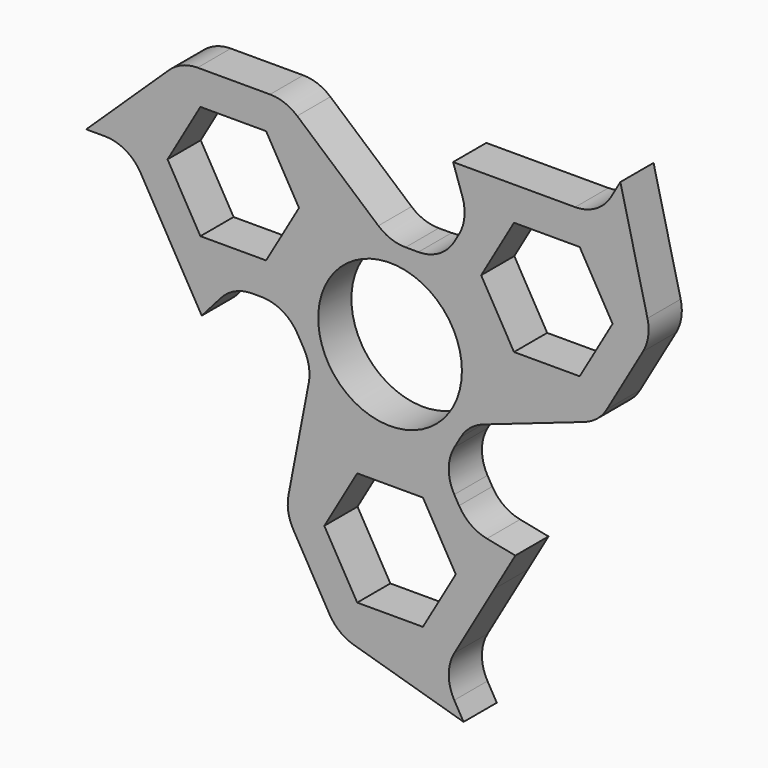
from build123d import *

# Parameters (mm, degrees)
F0_R     = 10.9982
F1_DEPTH = 6.35
F2_R     = 6.35


with BuildPart() as f1:
    # F0 (on Front) → F1 (new body)
    with BuildSketch(Plane.XZ):
        Polygon((-24.003, 0), (-16.002, 0), (-8.001, 13.858139), (-16.002, 27.716277), (-32.004, 27.716277), (-40.005, 13.858139), (-32.004, 0), align=None)
        Polygon((-13.943018, 13.858139), (-18.973009, 5.145939), (-29.032991, 5.145939), (-34.062982, 13.858139), (-29.032991, 22.570339), (-18.973009, 22.570339), align=None, mode=Mode.SUBTRACT)
        Polygon((-28.829, -5.499261), (-24.003, 0), (-32.004, 0), align=None)
        Polygon((-8.001, -13.858139), (8.001, -13.858139), (12.0015, -6.929069), (16.002, 0), (8.001, 13.858139), (0, 13.858139), (-8.001, 13.858139), (-16.002, 0), (-12.0015, -6.929069), align=None)
        Circle(F0_R, mode=Mode.SUBTRACT)
        Polygon((8.001, 13.858139), (16.002, 0), (32.004, 0), (40.005, 13.858139), (32.004, 27.716277), (16.002, 27.716277), (12.0015, 20.787208), align=None)
        Polygon((29.032991, 22.570339), (34.062982, 13.858139), (29.032991, 5.145939), (18.973009, 5.145939), (13.943018, 13.858139), (18.973009, 22.570339), align=None, mode=Mode.SUBTRACT)
        Polygon((9.652, 27.716277), (12.0015, 20.787208), (16.002, 27.716277), align=None)
        Polygon((12.0015, -20.787208), (8.001, -13.858139), (-8.001, -13.858139), (-16.002, -27.716277), (-8.001, -41.574416), (8.001, -41.574416), (16.002, -27.716277), align=None)
        Polygon((5.029991, -36.428477), (-5.029991, -36.428477), (-10.059982, -27.716277), (-5.029991, -19.004077), (5.029991, -19.004077), (10.059982, -27.716277), align=None, mode=Mode.SUBTRACT)
        Polygon((19.177, -22.217016), (12.0015, -20.787208), (16.002, -27.716277), align=None)
        Polygon((-40.005, 13.858139), (-32.004, 27.716277), (-46.515938, 13.858139), align=None)
        Polygon((32.004, 27.716277), (40.005, 13.858139), (35.259469, 33.354915), align=None)
        Polygon((8.001, -41.574416), (-8.001, -41.574416), (11.256469, -47.213053), align=None)
        Polygon((-16.002, 27.716277), (-8.001, 13.858139), (0, 13.858139), align=None)
        Polygon((-16.002, -27.716277), (-8.001, -13.858139), (-12.0015, -6.929069), align=None)
        Polygon((16.002, 0), (12.0015, -6.929069), (32.004, 0), align=None)
    extrude(amount=F1_DEPTH)

    # F2
    f2_edges = [f1.edges().sort_by_distance(p)[0] for p in [
        (32.004, -3.175, 27.716277),
        (8.001, -3.175, 13.858139),
        (0, -3.175, 13.858139),
        (-16.002, -3.175, 27.716277),
        (-32.004, -3.175, 27.716277),
        (-40.005, -3.175, 13.858139),
        (-16.002, -3.175, 0),
        (-12.0015, -3.175, -6.929069),
        (-16.002, -3.175, -27.716277),
        (-8.001, -3.175, -41.574416),
        (8.001, -3.175, -41.574416),
        (8.001, -3.175, -13.858139),
        (12.0015, -3.175, -6.929069),
        (32.004, -3.175, 0),
        (40.005, -3.175, 13.858139),
        (-24.003, -3.175, 0),
        (12.0015, -3.175, -20.787208),
        (12.0015, -3.175, 20.787208),
    ]]
    fillet(f2_edges, radius=F2_R)


solid = f1.part
